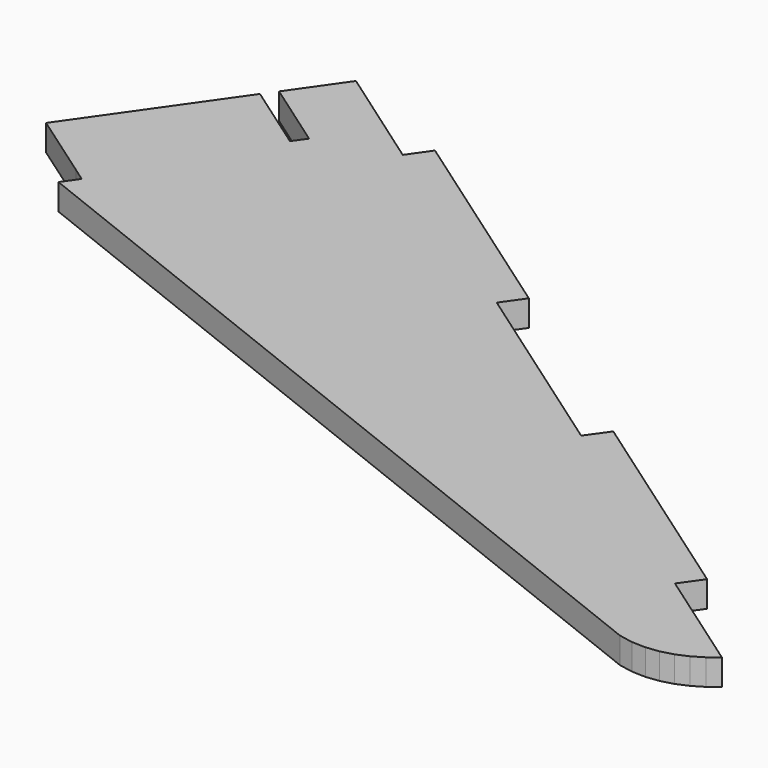
from build123d import *

# Parameters (mm, degrees)
PAD009_DEPTH = 5


with BuildPart() as part:
    # Sketch010 → Pad009 (new body)
    with BuildSketch(Plane.XY):
        with BuildLine():
            add(Edge.make_bspline(
                [(411.598433, -276.911825), (424.686488, -286.084047)],
                knots=[0, 0, 45.303532, 45.303532], degree=1))
            add(Edge.make_bspline(
                [(424.686488, -286.084047), (426.4151, -283.64988)],
                knots=[0, 0, 8.46286, 8.46286], degree=1))
            add(Edge.make_bspline(
                [(426.4151, -283.64988), (413.327044, -274.477658)],
                knots=[0, 0, 45.303532, 45.303532], degree=1))
            add(Edge.make_bspline(
                [(420.206211, -264.635159), (413.327044, -274.477658)],
                knots=[0, 0, 34.039095, 34.039095], degree=1))
            add(Edge.make_bspline(
                [(440.667321, -278.993214), (420.206211, -264.635159)],
                knots=[0, 0, 70.855416, 70.855416], degree=1))
            add(Edge.make_bspline(
                [(443.560099, -274.865714), (440.667321, -278.993214)],
                knots=[0, 0, 14.287407, 14.287407], degree=1))
            add(Edge.make_bspline(
                [(484.517598, -303.546547), (443.560099, -274.865714)],
                knots=[0, 0, 141.735317, 141.735317], degree=1))
            add(Edge.make_bspline(
                [(481.624821, -307.638769), (484.517598, -303.546547)],
                knots=[0, 0, 14.205633, 14.205633], degree=1))
            add(Edge.make_bspline(
                [(518.490097, -333.462102), (481.624821, -307.638769)],
                knots=[0, 0, 127.587186, 127.587186], degree=1))
            add(Edge.make_bspline(
                [(521.382875, -329.369879), (518.490097, -333.462102)],
                knots=[0, 0, 14.205633, 14.205633], degree=1))
            add(Edge.make_bspline(
                [(562.340374, -358.050712), (521.382875, -329.369879)],
                knots=[0, 0, 141.735317, 141.735317], degree=1))
            add(Edge.make_bspline(
                [(559.447597, -362.142934), (562.340374, -358.050712)],
                knots=[0, 0, 14.205633, 14.205633], degree=1))
            add(Edge.make_bspline(
                [(579.943985, -376.50099), (559.447597, -362.142934)],
                knots=[0, 0, 70.937296, 70.937296], degree=1))
            add(Edge.make_bspline(
                [(578.074263, -377.947378), (579.943985, -376.50099)],
                knots=[0, 0, 6.700746, 6.700746], degree=1))
            add(Edge.make_bspline(
                [(575.992874, -379.182101), (578.074263, -377.947378)],
                knots=[0, 0, 6.860029, 6.860029], degree=1))
            add(Edge.make_bspline(
                [(573.735096, -380.169878), (575.992874, -379.182101)],
                knots=[0, 0, 6.9857, 6.9857], degree=1))
            add(Edge.make_bspline(
                [(571.371485, -380.804878), (573.735096, -380.169878)],
                knots=[0, 0, 6.937579, 6.937579], degree=1))
            add(Edge.make_bspline(
                [(568.902041, -381.087101), (571.371485, -380.804878)],
                knots=[0, 0, 7.045566, 7.045566], degree=1))
            add(Edge.make_bspline(
                [(566.291485, -381.016545), (568.902041, -381.087101)],
                knots=[0, 0, 7.402702, 7.402702], degree=1))
            add(Edge.make_bspline(
                [(563.539819, -380.487378), (566.291485, -381.016545)],
                knots=[0, 0, 7.942921, 7.942921], degree=1))
            add(Edge.make_bspline(
                [(405.883433, -318.116269), (563.539819, -380.487378)],
                knots=[0, 0, 480.60155, 480.60155], degree=1))
            add(Edge.make_bspline(
                [(405.883433, -318.116269), (407.964822, -315.152935)],
                knots=[0, 0, 10.264989, 10.264989], degree=1))
            add(Edge.make_bspline(
                [(407.964822, -315.152935), (405.565933, -313.459602)],
                knots=[0, 0, 8.323461, 8.323461], degree=1))
            add(Edge.make_bspline(
                [(405.565933, -313.459602), (392.4426, -304.28738)],
                knots=[0, 0, 45.38546, 45.38546], degree=1))
            add(Edge.make_bspline(
                [(411.598433, -276.911825), (392.4426, -304.28738)],
                knots=[0, 0, 94.711404, 94.711404], degree=1))
        make_face()
    extrude(amount=PAD009_DEPTH)


solid = part.part
